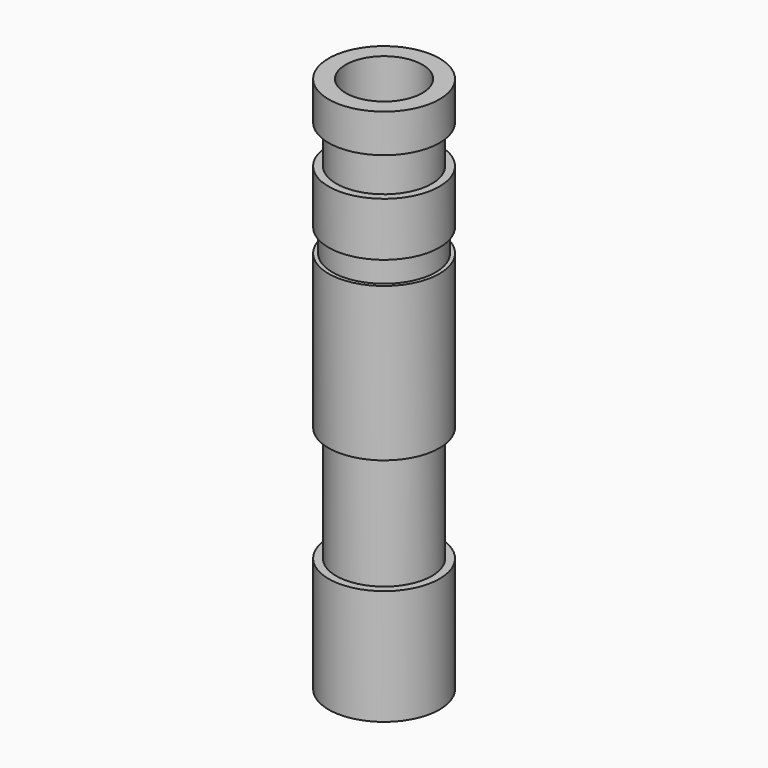
from build123d import *


with BuildPart() as f1:
    # F0 (on Front) → F1 (revolve)
    with BuildSketch(Plane.XZ):
        Polygon((17.36782, 59.346207), (17.36782, 72.046207), (11.71632, 72.046207), (11.71632, -105.753793), (17.36782, -105.753793), (17.36782, -67.653793), (14.82782, -67.653793), (14.82782, -29.553793), (17.36782, -29.553793), (17.36782, 21.246207), (16.09782, 21.246207), (16.09782, 28.866207), (17.36782, 28.866207), (17.36782, 46.646207), (14.82782, 46.646207), (14.82782, 59.346207), align=None)
    revolve(axis=Axis((-0.98368, 0, 0), (0, 0, -1)))


solid = f1.part
